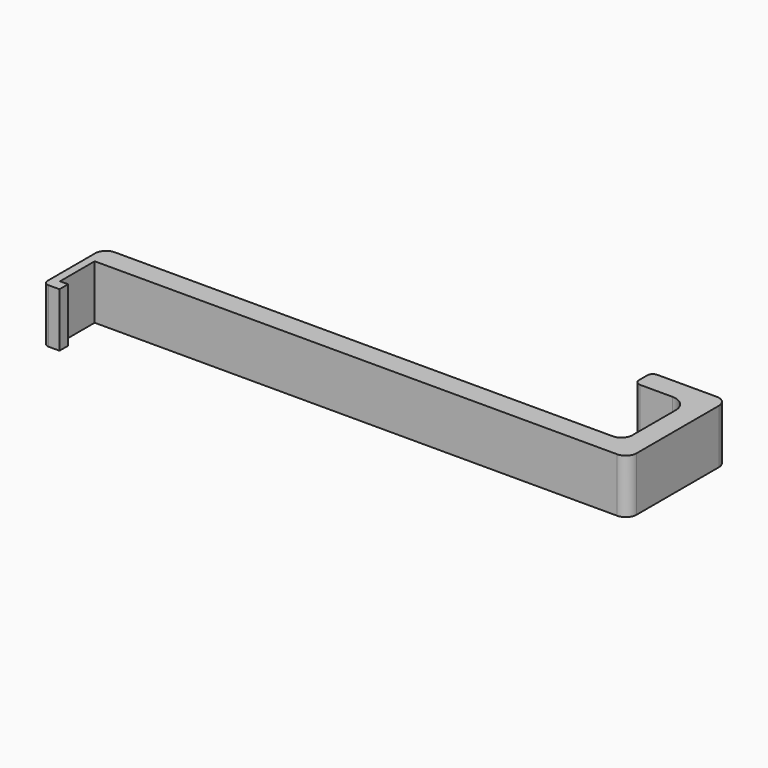
from build123d import *

# Parameters (mm, degrees)
F1_DEPTH = 10


with BuildPart() as f1:
    # F0 (on Top) → F1 (new body)
    with BuildSketch(Plane.XY):
        with BuildLine():
            Line((68.182781, 4.52071), (-23.817219, 4.52071))
            ThreePointArc((-23.817219, 4.52071), (-25.231433, 3.934924), (-25.817219, 2.52071))
            Line((-25.817219, 2.52071), (-25.817219, -8.47929))
            ThreePointArc((-25.817219, -8.47929), (-25.524326, -9.186397), (-24.817219, -9.47929))
            Line((-24.817219, -9.47929), (-22.817219, -9.47929))
            Line((-22.817219, -9.47929), (-22.817219, -7.47929))
            Line((-22.817219, -7.47929), (-23.317219, -7.47929))
            Line((-23.317219, -7.47929), (-24.317219, -7.47929))
            Line((-24.317219, -7.47929), (-24.317219, -6.47929))
            Line((-24.317219, -6.47929), (-24.317219, 0.52071))
            Line((-24.317219, 0.52071), (-23.317219, 0.52071))
            Line((-23.317219, 0.52071), (72.182781, 0.52071))
            ThreePointArc((72.182781, 0.52071), (73.596994, 1.106497), (74.182781, 2.52071))
            Line((74.182781, 2.52071), (74.182781, 21.52071))
            ThreePointArc((74.182781, 21.52071), (73.596994, 22.934924), (72.182781, 23.52071))
            Line((72.182781, 23.52071), (70.182781, 23.52071))
            Line((70.182781, 23.52071), (61.182781, 23.52071))
            ThreePointArc((61.182781, 23.52071), (60.475674, 23.227817), (60.182781, 22.52071))
            Line((60.182781, 22.52071), (60.182781, 20.52071))
            ThreePointArc((60.182781, 20.52071), (60.475674, 19.813603), (61.182781, 19.52071))
            Line((61.182781, 19.52071), (67.182781, 19.52071))
            ThreePointArc((67.182781, 19.52071), (69.304101, 18.642031), (70.182781, 16.52071))
            Line((70.182781, 16.52071), (70.182781, 6.52071))
            ThreePointArc((70.182781, 6.52071), (69.596994, 5.106497), (68.182781, 4.52071))
        make_face()
    extrude(amount=F1_DEPTH)


solid = f1.part
